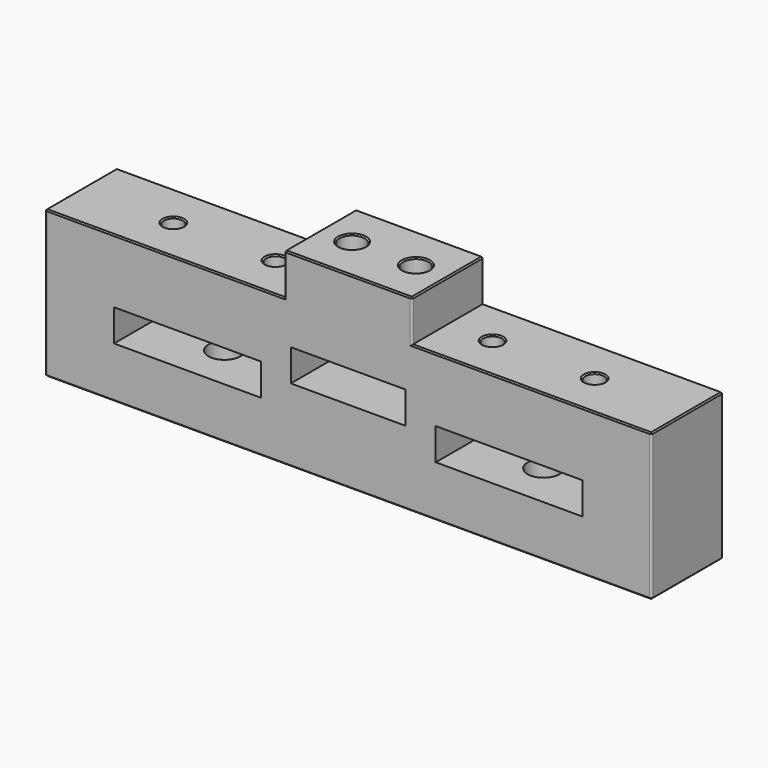
from build123d import *

# Parameters (mm, degrees)
SKETCH_W        = 18
SKETCH_H        = 5
SKETCH_W_2      = 23
PAD_DEPTH       = 14
SKETCH001_R     = 2
POCKET_DEPTH    = 17.5
SKETCH002_R     = 1.5
POCKET001_DEPTH = 14
SKETCH005_R     = 1.5
POCKET002_DEPTH = 14
SKETCH006_R     = 2.5
POCKET003_DEPTH = 20
FILLET_R        = 0.3
CHAMFER_SIZE    = 0.2
CHAMFER001_SIZE = 0.2
CHAMFER002_SIZE = 0.2
CHAMFER003_SIZE = 0.2
CHAMFER004_SIZE = 0.2


with BuildPart() as part:
    # Sketch → Pad (new body)
    with BuildSketch(Plane.XZ):
        Polygon((-47.5, 0), (47.5, 0), (47.5, 23), (10, 23), (10, 29.5), (-10, 29.5), (-10, 23), (-47.5, 23), align=None)
        with Locations((0, 14)):
            Rectangle(SKETCH_W, SKETCH_H, mode=Mode.SUBTRACT)
        with Locations((-25.2, 10.5)):
            Rectangle(SKETCH_W_2, SKETCH_H, mode=Mode.SUBTRACT)
        with Locations((25.2, 10.5)):
            Rectangle(SKETCH_W_2, SKETCH_H, mode=Mode.SUBTRACT)
    extrude(amount=PAD_DEPTH)

    # Sketch001 → Pocket (cut)
    with BuildSketch(Plane(origin=(0, 0, 29.5), x_dir=(-1, 0, 0), z_dir=(0, 0, 1))):
        with Locations((-5, 7)):
            Circle(SKETCH001_R)
        with Locations((5, 7)):
            Circle(SKETCH001_R)
    extrude(amount=-POCKET_DEPTH, mode=Mode.SUBTRACT)

    # Sketch002 → Pocket001 (cut)
    with BuildSketch(Plane(origin=(0, 0, 23), x_dir=(-1, 0, 0), z_dir=(0, 0, 1))):
        with Locations((-17, 7)):
            Circle(SKETCH002_R)
        with Locations((-33, 7)):
            Circle(SKETCH002_R)
    extrude(amount=-POCKET001_DEPTH, mode=Mode.SUBTRACT)

    # Sketch005 → Pocket002 (cut)
    with BuildSketch(Plane(origin=(0, 0, 23), x_dir=(-1, 0, 0), z_dir=(0, 0, 1))):
        with Locations((33, 7)):
            Circle(SKETCH005_R)
        with Locations((17, 7)):
            Circle(SKETCH005_R)
    extrude(amount=-POCKET002_DEPTH, mode=Mode.SUBTRACT)

    # Sketch006 → Pocket003 (cut)
    with BuildSketch(Plane(origin=(0, 0, 0), x_dir=(1, 0, 0), z_dir=(0, 0, -1))):
        with Locations((-25, 7)):
            Circle(SKETCH006_R)
        with Locations((25, 7)):
            Circle(SKETCH006_R)
    extrude(amount=-POCKET003_DEPTH, mode=Mode.SUBTRACT)

    # Fillet
    fillet_edges = [part.edges().sort_by_distance(p)[0] for p in [
        (-47.5, -14, 11.5),
        (-47.5, 0, 11.5),
        (47.5, 0, 11.5),
        (47.5, -14, 11.5),
        (10, -14, 26.25),
        (10, 0, 26.25),
        (-10, 0, 26.25),
        (-10, -14, 26.25),
    ]]
    fillet(fillet_edges, radius=FILLET_R)

    # Chamfer
    chamfer_edges = [part.edges().sort_by_distance(p)[0] for p in [
        (-9.912132, -13.912132, 29.5),
        (-10, -7, 29.5),
        (-9.912132, -0.087868, 29.5),
        (0, 0, 29.5),
        (9.912132, -0.087868, 29.5),
        (10, -7, 29.5),
        (9.912132, -13.912132, 29.5),
        (0, -14, 29.5),
    ]]
    chamfer(chamfer_edges, length=CHAMFER_SIZE)

    # Chamfer001
    chamfer001_edges = [part.edges().sort_by_distance(p)[0] for p in [
        (28.6, -14, 23),
        (47.5, -7, 23),
        (47.412132, -13.912132, 23),
        (47.412132, -0.087868, 23),
        (28.6, 0, 23),
        (9.85, -14, 23),
        (9.85, 0, 23),
    ]]
    chamfer(chamfer001_edges, length=CHAMFER001_SIZE)

    # Chamfer002
    chamfer002_edges = [part.edges().sort_by_distance(p)[0] for p in [
        (-9.85, -14, 23),
        (-28.6, -14, 23),
        (-47.412132, -13.912132, 23),
        (-47.5, -7, 23),
        (-9.85, 0, 23),
        (-28.6, 0, 23),
        (-47.412132, -0.087868, 23),
    ]]
    chamfer(chamfer002_edges, length=CHAMFER002_SIZE)

    # Chamfer003
    chamfer003_edges = [part.edges().sort_by_distance(p)[0] for p in [
        (-47.412132, -13.912132, 0),
        (0, -14, 0),
        (-47.5, -7, 0),
        (-47.412132, -0.087868, 0),
        (0, 0, 0),
        (47.412132, -0.087868, 0),
        (47.5, -7, 0),
        (47.412132, -13.912132, 0),
        (22.5, -7, 0),
        (-27.5, -7, 0),
    ]]
    chamfer(chamfer003_edges, length=CHAMFER003_SIZE)

    # Chamfer004
    chamfer004_edges = [part.edges().sort_by_distance(p)[0] for p in [
        (34.5, -7, 23),
        (18.5, -7, 23),
        (7, -7, 29.5),
        (-3, -7, 29.5),
        (-15.5, -7, 23),
        (-31.5, -7, 23),
    ]]
    chamfer(chamfer004_edges, length=CHAMFER004_SIZE)


solid = part.part
